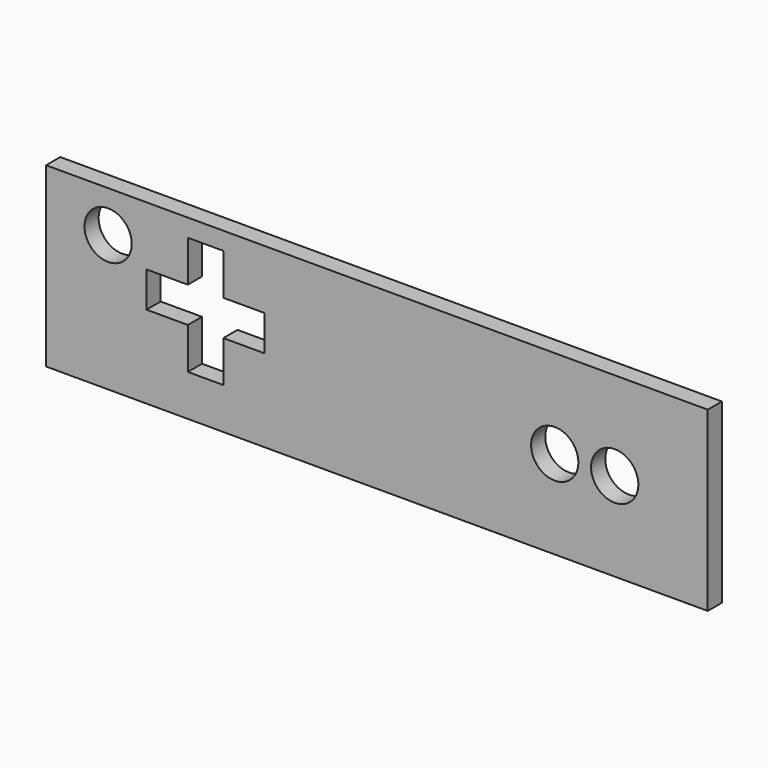
from build123d import *

# Parameters (mm, degrees)
F0_W     = 112
F0_H     = 30
F0_R     = 4
F1_DEPTH = 3
F3_DEPTH = 25
F4_R     = 4
F5_DEPTH = 25


with BuildPart() as f1:
    # F0 (on Front) → F1 (new body)
    with BuildSketch(Plane.XZ):
        Rectangle(F0_W, F0_H)
        with Locations((-45.5, 8)):
            Circle(F0_R, mode=Mode.SUBTRACT)
    extrude(amount=F1_DEPTH)

    # F2 (on face) → F3 (cut)
    with BuildSketch(Plane.XZ.offset(3)):
        Polygon((-39, 5), (-39, 2), (-39, -1), (-32, -1), (-32, -8), (-29, -8), (-26, -8), (-26, -1), (-19, -1), (-19, 2), (-19, 5), (-26, 5), (-26, 12), (-29, 12), (-32, 12), (-32, 5), align=None)
    extrude(amount=-F3_DEPTH, mode=Mode.SUBTRACT)

    # F4 (on face) → F5 (cut)
    with BuildSketch(Plane.XZ.offset(3)):
        with Locations((30.1, 0)):
            Circle(F4_R)
        with BuildLine():
            ThreePointArc((44.25, 0), (40.25, 4), (36.25, 0))
            ThreePointArc((36.25, 0), (40.25, -4), (44.25, 0))
        make_face()
    extrude(amount=-F5_DEPTH, mode=Mode.SUBTRACT)


solid = f1.part
